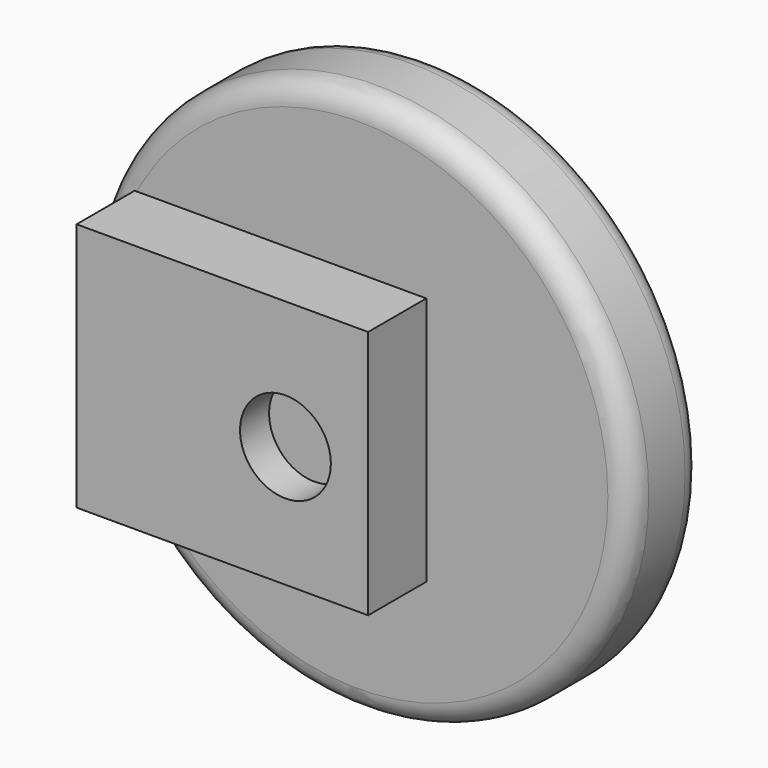
from build123d import *

# Parameters (mm, degrees)
F0_R     = 30
F1_DEPTH = 10
F2_R     = 2.5
F3_R     = 2.5
F4_R     = 5
F5_DEPTH = 6
F6_W     = 32.103093341
F6_H     = 27.4639837444
F6_R     = 5
F7_DEPTH = 4


with BuildPart() as f1:
    # F0 (on Front) → F1 (new body)
    with BuildSketch(Plane.XZ):
        Circle(F0_R)
    extrude(amount=F1_DEPTH)

    # F2
    f2_edges = [f1.edges().sort_by_distance(p)[0] for p in [
        (-30, -10, 0),
    ]]
    fillet(f2_edges, radius=F2_R)

    # F3
    f3_edges = [f1.edges().sort_by_distance(p)[0] for p in [
        (-30, 0, 0),
        (-27.5, -10, 0),
    ]]
    fillet(f3_edges, radius=F3_R)

    # F4 (on face) → F5 (join)
    with BuildSketch(Plane.XZ.offset(10)):
        Circle(F4_R)
    extrude(amount=F5_DEPTH)

    # F6 (on face) → F7 (join, symmetric)
    with BuildSketch(Plane.XZ.offset(16)):
        with Locations((-6.9443220273, 0.3692498431)):
            Rectangle(F6_W, F6_H)
        Circle(F6_R, mode=Mode.SUBTRACT)
    extrude(amount=F7_DEPTH, both=True)


solid = f1.part
